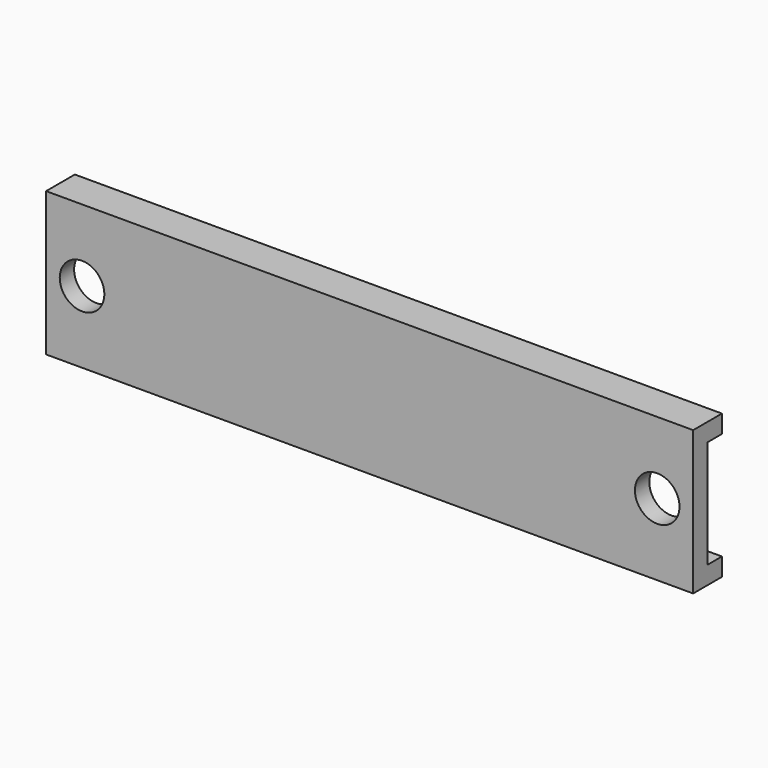
from build123d import *

# Parameters (mm, degrees)
F0_W     = 90
F0_H     = 20
F1_DEPTH = 5
F2_T     = -2.5
F4_D     = 6.2


with BuildPart() as f1:
    # F0 (on Front) → F1 (new body)
    with BuildSketch(Plane.XZ):
        Rectangle(F0_W, F0_H)
    extrude(amount=F1_DEPTH)

    # F2
    f2_openings = [f1.faces().sort_by_distance(p)[0] for p in [
        (0, 0, 0),
        (45, -2.5, 0),
        (-45, -2.5, 0),
    ]]
    offset(amount=F2_T, openings=f2_openings)

    # F4 (through all)
    with Locations(Plane.XZ.offset(5)):
        with Locations((40, 0), (-40, 0)):
            Hole(F4_D / 2)


solid = f1.part
